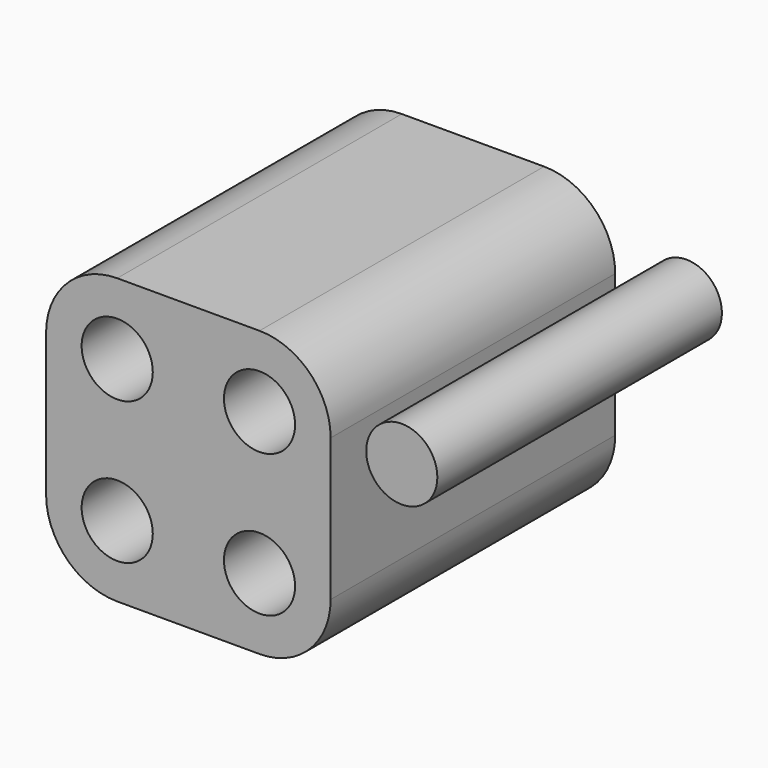
from build123d import *

# Parameters (mm, degrees)
F0_R     = 2.5
F1_DEPTH = 25


with BuildPart() as f1:
    # F0 (on Front) → F1 (new body)
    with BuildSketch(Plane.XZ):
        with BuildLine():
            Line((5, 10), (-5, 10))
            ThreePointArc((-5, 10), (-8.535534, 8.535534), (-10, 5))
            Line((-10, 5), (-10, -5))
            ThreePointArc((-10, -5), (-8.535534, -8.535534), (-5, -10))
            Line((-5, -10), (5, -10))
            ThreePointArc((5, -10), (8.535534, -8.535534), (10, -5))
            Line((10, -5), (10, 5))
            ThreePointArc((10, 5), (8.535534, 8.535534), (5, 10))
        make_face()
        with Locations((-5, -5)):
            Circle(F0_R, mode=Mode.SUBTRACT)
        with Locations((5, -5)):
            Circle(F0_R, mode=Mode.SUBTRACT)
        with Locations((-5, 5)):
            Circle(F0_R, mode=Mode.SUBTRACT)
        with Locations((5, 5)):
            Circle(F0_R, mode=Mode.SUBTRACT)
        with Locations((15, 5)):
            Circle(F0_R)
    extrude(amount=F1_DEPTH)


solid = f1.part
